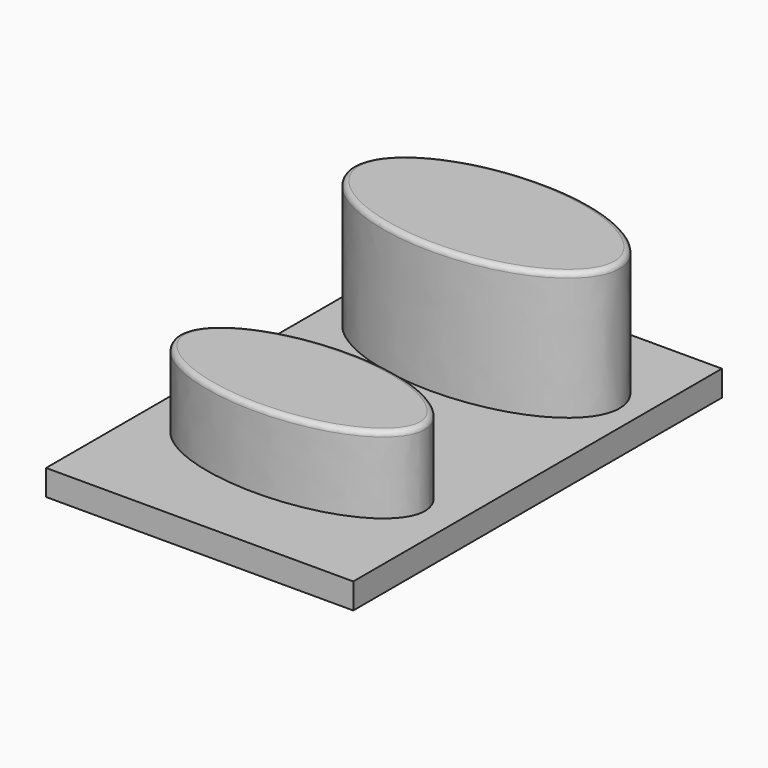
from build123d import *

# Parameters (mm, degrees)
F1_DEPTH = 15
F3_DEPTH = 25
F4_R     = 1
F4_2_R   = 1
F5_W     = 60
F5_H     = 90
F6_DEPTH = 5


with BuildPart() as f1:
    # F0 (on Top) → F1 (new body)
    with BuildSketch(Plane.XY):
        with BuildLine():
            add(Edge.make_bspline(
                [(24, 0), (24, 19.918584), (-12, 9.959292), (-48, 0), (-12, -9.959292), (24, -19.918584), (24, 0)],
                knots=[0, 0, 0, 2.094395, 2.094395, 4.18879, 4.18879, 6.283185, 6.283185, 6.283185], degree=2, weights=[1, 0.5, 1, 0.5, 1, 0.5, 1]))
        make_face()
    extrude(amount=F1_DEPTH)

    # F4
    f4_edges = [f1.edges().sort_by_distance(p)[0] for p in [
        (-24, 5e-06, 15),
    ]]
    fillet(f4_edges, radius=F4_R)



with BuildPart() as f3:
    # F2 (on Top) → F3 (new body)
    with BuildSketch(Plane.XY):
        with BuildLine():
            add(Edge.make_bspline(
                [(26, 45), (26, 68.382686), (-13, 56.691343), (-52, 45), (-13, 33.308657), (26, 21.617314), (26, 45)],
                knots=[0, 0, 0, 2.094395, 2.094395, 4.18879, 4.18879, 6.283185, 6.283185, 6.283185], degree=2, weights=[1, 0.5, 1, 0.5, 1, 0.5, 1]))
        make_face()
    extrude(amount=F3_DEPTH)

    # F4#2
    f4_2_edges = [f3.edges().sort_by_distance(p)[0] for p in [
        (-26, 45.000002, 25),
    ]]
    fillet(f4_2_edges, radius=F4_2_R)


with BuildPart() as f1_1:
    add(f1.part)

    add(f3.part)  # F6 merges F3
    # F5 (on Top) → F6 (join)
    with BuildSketch(Plane.XY):
        with Locations((0, 20)):
            Rectangle(F5_W, F5_H)
    extrude(amount=-F6_DEPTH)


solid = f1_1.part
